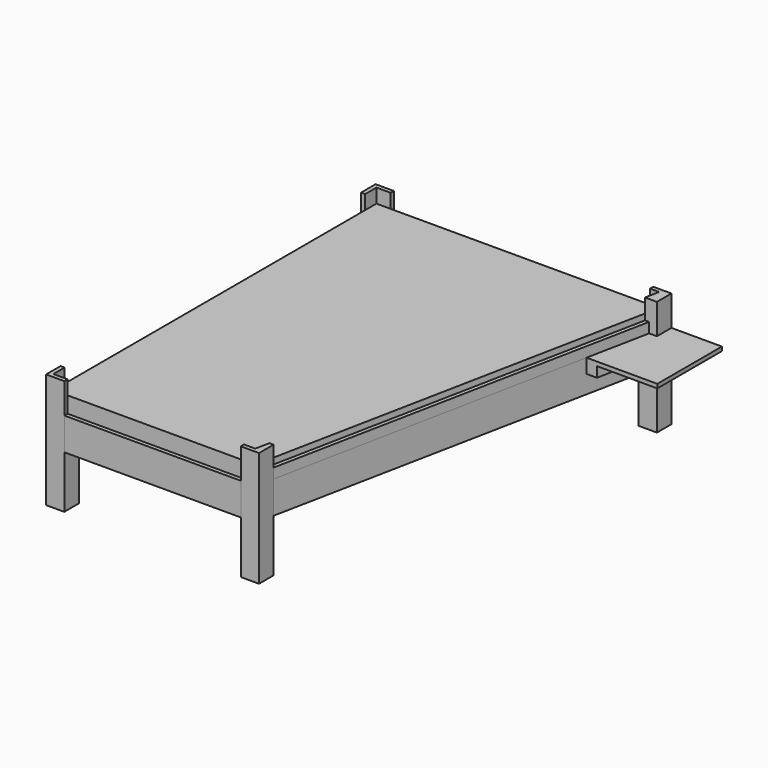
from build123d import *

# Parameters (mm, degrees)
F1_DEPTH      = 762
F2_DEPTH      = 685.8
F0_W          = 50.8
F0_H          = 4724.4
F3_DEPTH      = 304.8
F3_DEPTH_BACK = 101.6
F5_DEPTH      = 179.832
F6_DEPTH      = 50.8
F0_W_2        = 76.2
F7_DEPTH      = 76.2
F8_DEPTH      = 508
F9_DEPTH      = 127
F10_DEPTH     = 50.8


with BuildPart() as f1:
    # F0 (on Top) → F1 (new body)
    with BuildSketch(Plane.XY):
        Polygon((2398.7660382581, 0), (2398.7660382581, -50.8), (2627.3660382581, -50.8), (2627.3660382581, 177.8), (2575.56, 177.8), (2540, 0), align=None)
        Polygon((2398.7660382581, 76.2), (2398.7660382581, 0), (2540, 0), (2575.56, 177.8), (2497.8509426128, 177.8), (2398.7660382581, 177.8), align=None)
    extrude(amount=-F1_DEPTH)

    # F0 (on Top) → F2, piece 2 (join)
    with BuildSketch(Plane.XY):
        Polygon((2398.7660382581, 0), (2398.7660382581, -50.8), (2627.3660382581, -50.8), (2627.3660382581, 177.8), (2575.56, 177.8), (2540, 0), align=None)
    extrude(amount=F2_DEPTH)


with BuildPart() as f1b:
    # F0 (on Top) → F1, piece 2 (new body)
    with BuildSketch(Plane.XY):
        Polygon((3670.3, 5130.8), (3441.7, 5130.8), (3441.7, 5080), (3556, 5080), (3520.44, 4902.2), (3572.2460382581, 4902.2), (3670.3, 4902.2), align=None)
        Polygon((3441.7, 5080), (3441.7, 5003.8), (3441.7, 4902.2), (3442.7309426128, 4902.2), (3520.44, 4902.2), (3556, 5080), align=None)
    extrude(amount=-F1_DEPTH)

    # F0 (on Top) → F2, piece 3 (join)
    with BuildSketch(Plane.XY):
        Polygon((3670.3, 5130.8), (3441.7, 5130.8), (3441.7, 5080), (3556, 5080), (3520.44, 4902.2), (3572.2460382581, 4902.2), (3670.3, 4902.2), align=None)
    extrude(amount=F2_DEPTH)


with BuildPart() as f1c:
    # F0 (on Top) → F1, piece 3 (new body)
    with BuildSketch(Plane.XY):
        Polygon((177.8, 0), (0, 0), (0, 177.8), (-50.8, 177.8), (-50.8, -50.8), (177.8, -50.8), align=None)
        Polygon((0, 177.8), (0, 0), (177.8, 0), (177.8, 76.2), (177.8, 177.8), (76.2, 177.8), align=None)
    extrude(amount=-F1_DEPTH)

    # F0 (on Top) → F2 (join)
    with BuildSketch(Plane.XY):
        Polygon((177.8, 0), (0, 0), (0, 177.8), (-50.8, 177.8), (-50.8, -50.8), (177.8, -50.8), align=None)
    extrude(amount=F2_DEPTH)


with BuildPart() as f1d:
    # F0 (on Top) → F1, piece 4 (new body)
    with BuildSketch(Plane.XY):
        Polygon((0, 5080), (0, 4902.2), (76.2, 4902.2), (177.8, 4902.2), (177.8, 5003.8), (177.8, 5080), align=None)
        Polygon((-50.8, 4902.2), (0, 4902.2), (0, 5080), (177.8, 5080), (177.8, 5130.8), (-50.8, 5130.8), align=None)
    extrude(amount=-F1_DEPTH)

    # F0 (on Top) → F2, piece 4 (join)
    with BuildSketch(Plane.XY):
        Polygon((-50.8, 4902.2), (0, 4902.2), (0, 5080), (177.8, 5080), (177.8, 5130.8), (-50.8, 5130.8), align=None)
    extrude(amount=F2_DEPTH)


with BuildPart() as f3:
    # F0 (on Top) → F3 (new body, two sides)
    with BuildSketch(Plane.XY) as f3_sk:
        with Locations((-25.4, 2540)):
            Rectangle(F0_W, F0_H)
    extrude(amount=F3_DEPTH)
    extrude(f3_sk.sketch, amount=-F3_DEPTH_BACK)


with BuildPart() as f3b:
    # F0 (on Top) → F3, piece 2 (new body, two sides)
    with BuildSketch(Plane.XY) as f3_2_sk:
        Polygon((177.8, 5130.8), (177.8, 5080), (1701.4199477671, 5080), (1854.5800522329, 5080), (3441.7, 5080), (3441.7, 5130.8), align=None)
    extrude(amount=F3_DEPTH)
    extrude(f3_2_sk.sketch, amount=-F3_DEPTH_BACK)


with BuildPart() as f3c:
    # F0 (on Top) → F3, piece 3 (new body, two sides)
    with BuildSketch(Plane.XY) as f3_3_sk:
        Polygon((2575.56, 177.8), (2627.3660382581, 177.8), (3572.2460382581, 4902.2), (3520.44, 4902.2), align=None)
    extrude(amount=F3_DEPTH)
    extrude(f3_3_sk.sketch, amount=-F3_DEPTH_BACK)


with BuildPart() as f3d:
    # F0 (on Top) → F3, piece 4 (new body, two sides)
    with BuildSketch(Plane.XY) as f3_4_sk:
        Polygon((1193.4199477671, 0), (177.8, 0), (177.8, -50.8), (2398.7660382581, -50.8), (2398.7660382581, 0), (1346.5800522329, 0), align=None)
    extrude(amount=F3_DEPTH)
    extrude(f3_4_sk.sketch, amount=-F3_DEPTH_BACK)


with BuildPart() as f5:
    # F4 (on face) → F5 (new body)
    with BuildSketch(Plane.XY.offset(304.8)):
        Polygon((3670.3, 5130.8), (3670.3, 4902.2), (3670.3, 4734.5331228316), (3799.332, 4734.5331228316), (3799.332, 5130.8), align=None)
        Polygon((3670.3, 4734.5331228316), (3670.3, 4902.2), (3616.9708189392, 4902.2), (3572.2460382581, 4902.2), (3414.7660382581, 4114.8), (3546.3533754337, 4114.8), align=None)
    extrude(amount=-F5_DEPTH)

    # F4 (on face) → F6 (join)
    with BuildSketch(Plane.XY.offset(304.8)):
        Polygon((3799.332, 4734.5331228316), (3670.3, 4734.5331228316), (3546.3533754337, 4114.8), (4305.3, 4114.8), (4305.3, 5130.8), (3799.332, 5130.8), align=None)
    extrude(amount=-F6_DEPTH)


with BuildPart() as f7:
    # F0 (on Top) → F7 (new body)
    with BuildSketch(Plane.XY):
        with Locations((38.1, 2540)):
            Rectangle(F0_W_2, F0_H)
    extrude(amount=-F7_DEPTH)


with BuildPart() as f7b:
    # F0 (on Top) → F7, piece 2 (new body)
    with BuildSketch(Plane.XY):
        Polygon((1701.4199477671, 5080), (177.8, 5080), (177.8, 5003.8), (1693.7999477671, 5003.8), align=None)
        Polygon((1701.4199477671, 5080), (1693.7999477671, 5003.8), (1846.9600522329, 5003.8), (1854.5800522329, 5080), align=None)
        Polygon((1854.5800522329, 5080), (1846.9600522329, 5003.8), (3441.7, 5003.8), (3441.7, 5080), align=None)
    extrude(amount=-F7_DEPTH)


with BuildPart() as f7c:
    # F0 (on Top) → F7, piece 3 (new body)
    with BuildSketch(Plane.XY):
        Polygon((2497.8509426128, 177.8), (2575.56, 177.8), (3520.44, 4902.2), (3442.7309426128, 4902.2), align=None)
    extrude(amount=-F7_DEPTH)


with BuildPart() as f7d:
    # F0 (on Top) → F7, piece 4 (new body)
    with BuildSketch(Plane.XY):
        Polygon((177.8, 76.2), (177.8, 0), (1193.4199477671, 0), (1201.0399477671, 76.2), align=None)
        Polygon((1201.0399477671, 76.2), (1193.4199477671, 0), (1346.5800522329, 0), (1354.2000522329, 76.2), align=None)
        Polygon((1354.2000522329, 76.2), (1346.5800522329, 0), (2398.7660382581, 0), (2398.7660382581, 76.2), align=None)
    extrude(amount=-F7_DEPTH)


with BuildPart() as f8:
    # F0 (on Top) → F8 (new body)
    with BuildSketch(Plane.XY):
        with Locations((38.1, 2540)):
            Rectangle(F0_W_2, F0_H)
        Polygon((0, 5080), (0, 4902.2), (76.2, 4902.2), (177.8, 4902.2), (177.8, 5003.8), (177.8, 5080), align=None)
        Polygon((1701.4199477671, 5080), (177.8, 5080), (177.8, 5003.8), (1693.7999477671, 5003.8), align=None)
        Polygon((1701.4199477671, 5080), (1693.7999477671, 5003.8), (1846.9600522329, 5003.8), (1854.5800522329, 5080), align=None)
        Polygon((1854.5800522329, 5080), (1846.9600522329, 5003.8), (3441.7, 5003.8), (3441.7, 5080), align=None)
        Polygon((76.2, 4902.2), (76.2, 177.8), (177.8, 177.8), (177.8, 76.2), (1201.0399477671, 76.2), (1693.7999477671, 5003.8), (177.8, 5003.8), (177.8, 4902.2), align=None)
        Polygon((2497.8509426128, 177.8), (2575.56, 177.8), (3520.44, 4902.2), (3442.7309426128, 4902.2), align=None)
        Polygon((2398.7660382581, 76.2), (2398.7660382581, 0), (2540, 0), (2575.56, 177.8), (2497.8509426128, 177.8), (2398.7660382581, 177.8), align=None)
        Polygon((177.8, 76.2), (177.8, 0), (1193.4199477671, 0), (1201.0399477671, 76.2), align=None)
        Polygon((1201.0399477671, 76.2), (1193.4199477671, 0), (1346.5800522329, 0), (1354.2000522329, 76.2), align=None)
        Polygon((1354.2000522329, 76.2), (1346.5800522329, 0), (2398.7660382581, 0), (2398.7660382581, 76.2), align=None)
        Polygon((0, 177.8), (0, 0), (177.8, 0), (177.8, 76.2), (177.8, 177.8), (76.2, 177.8), align=None)
        Polygon((3441.7, 5080), (3441.7, 5003.8), (3441.7, 4902.2), (3442.7309426128, 4902.2), (3520.44, 4902.2), (3556, 5080), align=None)
        Polygon((1693.7999477671, 5003.8), (1201.0399477671, 76.2), (1354.2000522329, 76.2), (1846.9600522329, 5003.8), align=None)
        Polygon((1846.9600522329, 5003.8), (1354.2000522329, 76.2), (2398.7660382581, 76.2), (2398.7660382581, 177.8), (2497.8509426128, 177.8), (3442.7309426128, 4902.2), (3441.7, 4902.2), (3441.7, 5003.8), align=None)
    extrude(amount=F8_DEPTH)


with BuildPart() as f9:
    # F9 (new): a face of the model
    f9_faces = [f3c.part.faces().sort_by_distance(p)[0] for p in [
        (3073.9030191291, 2540, 304.8),
    ]]
    extrude(f9_faces, amount=F9_DEPTH)


with BuildPart() as f9b:
    # F9#2 (new): a face of the model
    f9_2_faces = [f3.part.faces().sort_by_distance(p)[0] for p in [
        (-25.4, 2540, 304.8),
    ]]
    extrude(f9_2_faces, amount=F9_DEPTH)


with BuildPart() as f10:
    # F0 (on Top) → F10 (new body)
    with BuildSketch(Plane.XY):
        Polygon((1693.7999477671, 5003.8), (1201.0399477671, 76.2), (1354.2000522329, 76.2), (1846.9600522329, 5003.8), align=None)
    extrude(amount=-F10_DEPTH)


solid = Compound([f1.part, f1b.part, f1c.part, f1d.part, f3.part, f3b.part, f3c.part, f3d.part, f5.part, f7.part, f7b.part, f7c.part, f7d.part, f8.part, f9.part, f9b.part, f10.part])
